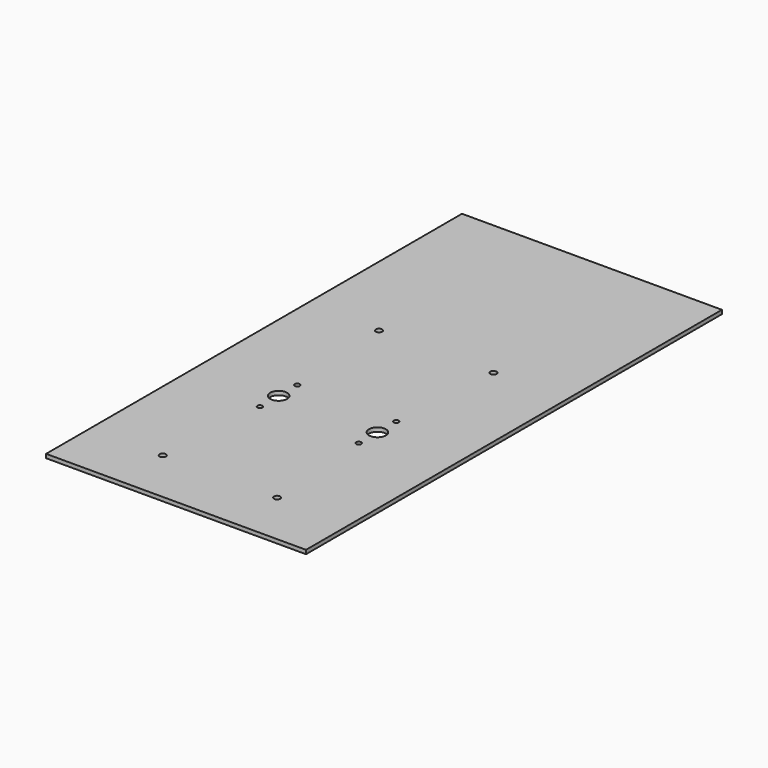
from build123d import *

# Parameters (mm, degrees)
SKETCH_W   = 200
SKETCH_H   = 400
SKETCH_R   = 2.45
SKETCH_R_2 = 1.95
SKETCH_R_3 = 6.5
PAD_DEPTH  = 3


with BuildPart() as part:
    # Sketch → Pad (new body)
    with BuildSketch(Plane.XY):
        Rectangle(SKETCH_W, SKETCH_H)
        with Locations((-44, 50.2)):
            Circle(SKETCH_R, mode=Mode.SUBTRACT)
        with Locations((-44, -157.8)):
            Circle(SKETCH_R, mode=Mode.SUBTRACT)
        with Locations((44, 50.2)):
            Circle(SKETCH_R, mode=Mode.SUBTRACT)
        with Locations((44, -157.8)):
            Circle(SKETCH_R, mode=Mode.SUBTRACT)
        with Locations((-38, -35.8)):
            Circle(SKETCH_R_2, mode=Mode.SUBTRACT)
        with Locations((-38, -71.8)):
            Circle(SKETCH_R_2, mode=Mode.SUBTRACT)
        with Locations((-38, -53.8)):
            Circle(SKETCH_R_3, mode=Mode.SUBTRACT)
        with Locations((38, -35.8)):
            Circle(SKETCH_R_2, mode=Mode.SUBTRACT)
        with Locations((38, -53.8)):
            Circle(SKETCH_R_3, mode=Mode.SUBTRACT)
        with Locations((38, -71.8)):
            Circle(SKETCH_R_2, mode=Mode.SUBTRACT)
    extrude(amount=PAD_DEPTH)


solid = part.part
